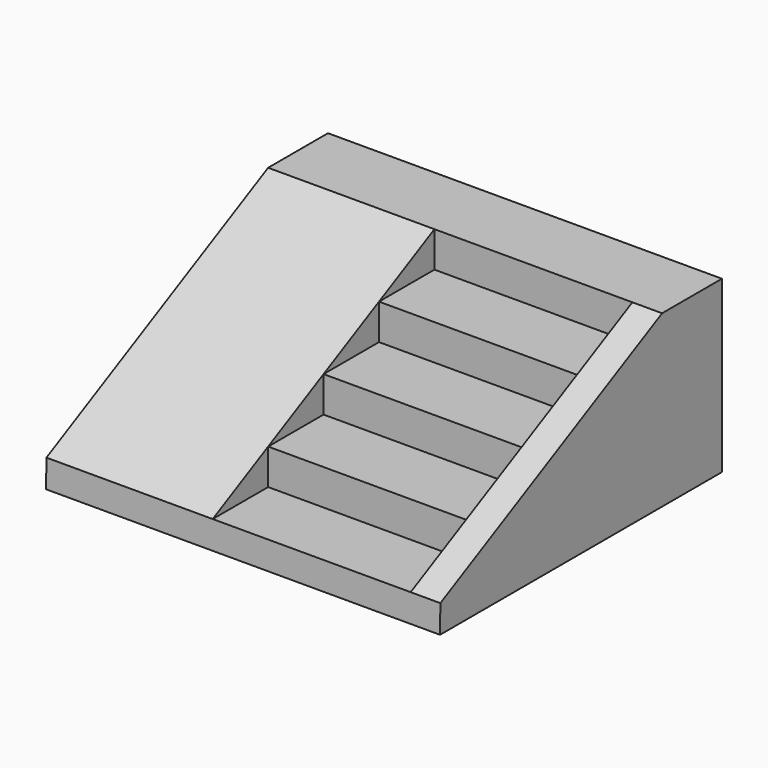
from build123d import *

# Parameters (mm, degrees)
F1_DEPTH      = 500
F1_DEPTH_BACK = 500
F3_DEPTH      = 150
F5_DEPTH      = 840


with BuildPart() as f1:
    # F0 (on Right) → F1 (new body, two sides)
    with BuildSketch(Plane.YZ) as f1_sk:
        Polygon((-1780, 0), (0, 0), (0, 860), (-377.893543, 860), (-377.893543, 679.984152), (-727.893543, 679.984152), (-727.893543, 499.984152), (-1077.893543, 499.984152), (-1077.893543, 319.984152), (-1427.893543, 319.984152), (-1427.893543, 139.984152), (-1777.893543, 139.984152), align=None)
    extrude(amount=F1_DEPTH)
    extrude(f1_sk.sketch, amount=-F1_DEPTH_BACK)

    # F2 (on face) → F3 (join)
    with BuildSketch(Plane.YZ.offset(500)):
        Polygon((0, 860), (-377.893543, 860), (-1777.893543, 139.984152), (-1780, 0), (0, 0), align=None)
    extrude(amount=F3_DEPTH)

    # F4 (on face) → F5 (join)
    with BuildSketch(Plane(origin=(-500, 0, 0), x_dir=(0, -1, 0), z_dir=(-1, 0, 0))):
        Polygon((1780, 0), (1777.893543, 139.984152), (377.893543, 860), (0, 860), (0, 0), align=None)
    extrude(amount=F5_DEPTH)


solid = f1.part
